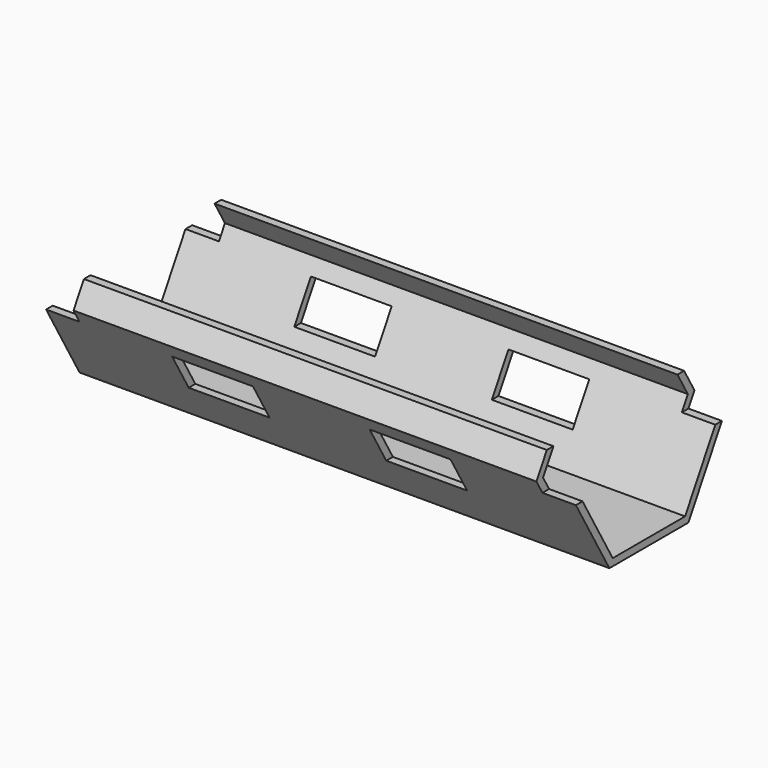
from build123d import *

# Parameters (mm, degrees)
F2_DEPTH = 29.5
F3_DEPTH = 30
F5_DEPTH = 45.85
F6_W     = 9
F6_H     = 4
F7_DEPTH = 12.5
F8_W     = 4
F8_H     = 4
F9_DEPTH = 12.5


with BuildPart() as f2:
    # F0 (on Right) → F2 (new body, symmetric)
    with BuildSketch(Plane.YZ):
        Polygon((11, 0), (5.5, 9.526279), (-5.5, 9.526279), (-11, 0), (-5.5, -9.526279), (5.5, -9.526279), align=None)
    extrude(amount=F2_DEPTH, both=True)

    # F1 (on Right) → F3 (cut, symmetric)
    with BuildSketch(Plane.YZ):
        Polygon((-5.03812, 8.726279), (-10.07624, 0), (-5.03812, -8.726279), (5.03812, -8.726279), (10.07624, 0), (5.03812, 8.726279), align=None)
    extrude(amount=F3_DEPTH, both=True, mode=Mode.SUBTRACT)

    # F4 (on face) → F5 (cut, symmetric)
    with BuildSketch(Plane.YZ):
        Polygon((-12.379561, 14.501398), (-12.379561, 2.501398), (-9.555817, 2.501398), (-5.5, 9.526279), (5.5, 9.526279), (9.555817, 2.501398), (12.266592, 2.501398), (12.266592, 14.501398), align=None)
        Polygon((-5.5, 9.526279), (-9.555817, 2.501398), (9.555817, 2.501398), (5.5, 9.526279), align=None)
    extrude(amount=F5_DEPTH, both=True, mode=Mode.SUBTRACT)

    # F6 (on Front) → F7 (cut, symmetric)
    with BuildSketch(Plane.XZ):
        with Locations((11, -3.526279)):
            Rectangle(F6_W, F6_H)
        with Locations((-11, -3.526279)):
            Rectangle(F6_W, F6_H)
    extrude(amount=F7_DEPTH, both=True, mode=Mode.SUBTRACT)

    # F8 (on Front) → F9 (cut, symmetric)
    with BuildSketch(Plane.XZ):
        with Locations((-27.774018, 0.550773)):
            Rectangle(F8_W, F8_H)
        with Locations((27.774018, 0.550773)):
            Rectangle(F8_W, F8_H)
    extrude(amount=F9_DEPTH, both=True, mode=Mode.SUBTRACT)


solid = f2.part
